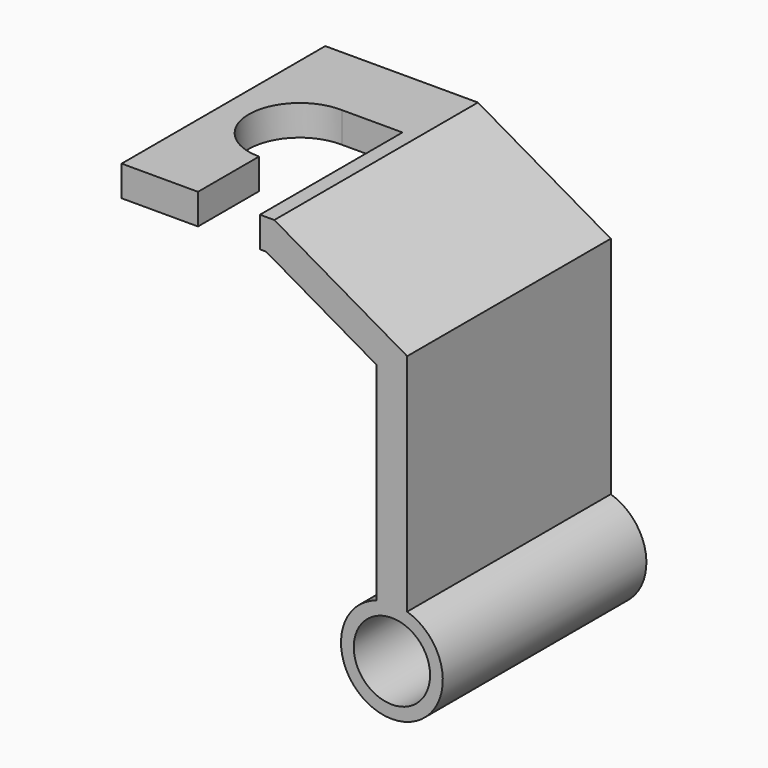
from build123d import *

# Parameters (mm, degrees)
F0_R     = 7.5
F1_DEPTH = 50
F3_DEPTH = 25


with BuildPart() as f1:
    # F0 (on Front) → F1 (new body)
    with BuildSketch(Plane.XZ):
        with BuildLine():
            Line((-3, 50.267949), (-3, 9.539392))
            ThreePointArc((-3, 9.539392), (0, -10), (3, 9.539392))
            Line((3, 9.539392), (3, 53.732051))
            Line((3, 53.732051), (-23.098088, 68.799789))
            Line((-23.098088, 68.799789), (-53.098088, 68.799789))
            Line((-53.098088, 68.799789), (-53.098088, 62.799789))
            Line((-53.098088, 62.799789), (-24.705783, 62.799789))
            Line((-24.705783, 62.799789), (-3, 50.267949))
        make_face()
        Circle(F0_R, mode=Mode.SUBTRACT)
    extrude(amount=F1_DEPTH)

    # F2 (on face) → F3 (cut)
    with BuildSketch(Plane.XY.offset(68.799789)):
        with BuildLine():
            Line((-25.921848, -15.004292), (-37.805126, -15.004292))
            ThreePointArc((-37.805126, -15.004292), (-48.097015, -24.853503), (-38.098088, -35))
            Line((-38.098088, -35), (-38.098088, -50))
            Line((-38.098088, -50), (-25.921848, -50))
            Line((-25.921848, -50), (-25.921848, -20.000448))
            Line((-25.921848, -20.000448), (-25.921848, -15.004292))
        make_face()
    extrude(amount=-F3_DEPTH, mode=Mode.SUBTRACT)


solid = f1.part
